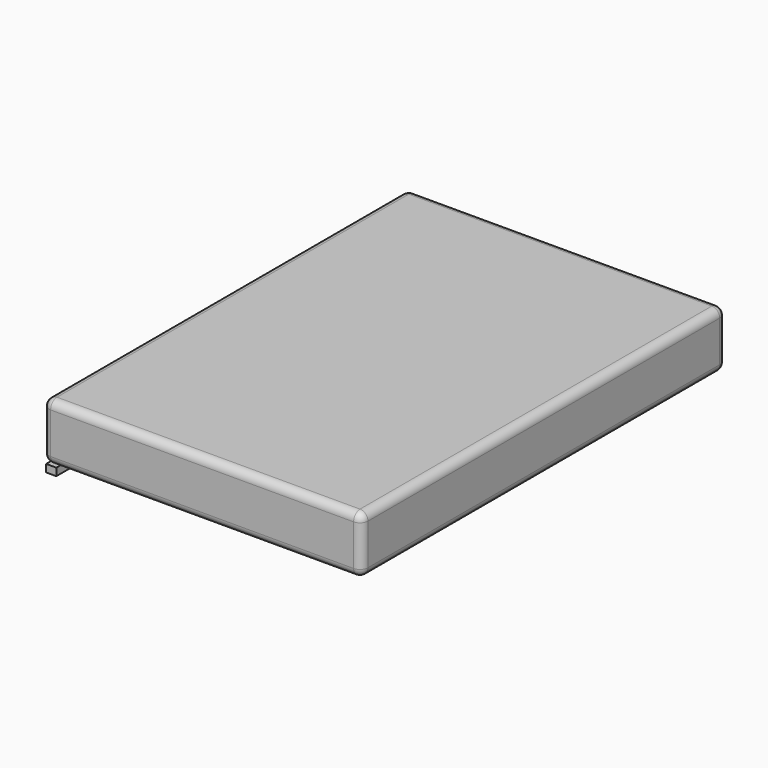
from build123d import *

# Parameters (mm, degrees)
F0_W     = 1400
F0_H     = 2000
F1_DEPTH = 250
F2_R     = 35
F3_W     = 45
F3_H     = 33
F4_DEPTH = 1000


with BuildPart() as f1:
    # F0 (on Top) → F1 (new body)
    with BuildSketch(Plane.XY):
        Rectangle(F0_W, F0_H)
    extrude(amount=F1_DEPTH)

    # F2
    f2_edges = [f1.edges().sort_by_distance(p)[0] for p in [
        (-700, 0, 250),
        (0, -1000, 250),
        (-700, -1000, 125),
        (700, 0, 250),
        (0, 1000, 250),
        (700, -1000, 125),
        (0, -1000, 0),
        (700, 0, 0),
        (-700, 1000, 125),
        (0, 1000, 0),
        (700, 1000, 125),
        (-700, 0, 0),
    ]]
    fillet(f2_edges, radius=F2_R)


with BuildPart() as f4:
    # F3 (on Front) → F4 (new body, symmetric)
    with BuildSketch(Plane.XZ):
        with Locations((-662.5, -16.5)):
            Rectangle(F3_W, F3_H)
    extrude(amount=F4_DEPTH, both=True)


solid = Compound([f1.part, f4.part])
